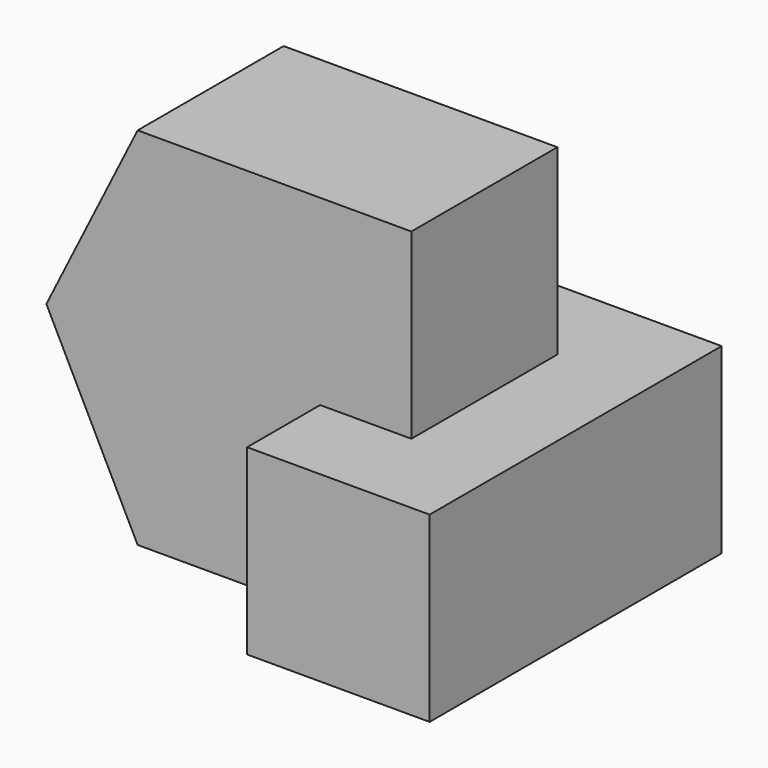
from build123d import *

# Parameters (mm, degrees)
F0_W      = 50
F0_H      = 40
F1_DEPTH  = 40
F2_W      = 10
F2_H      = 20
F3_DEPTH  = 50.001
F4_W      = 30
F4_H      = 10
F5_DEPTH  = 20.001
F6_W      = 10
F6_H      = 20
F7_DEPTH  = 20
F9_DEPTH  = 30.001
F10_DEPTH = 30.001


with BuildPart() as f1:
    # F0 (on Front) → F1 (new body)
    with BuildSketch(Plane.XZ):
        with Locations((25, 20)):
            Rectangle(F0_W, F0_H)
    extrude(amount=F1_DEPTH)

    # F2 (on face) → F3 (cut, through all)
    with BuildSketch(Plane(origin=(0, 0, 0), x_dir=(0, -1, 0), z_dir=(-1, 0, 0))):
        with Locations((5, 30)):
            Rectangle(F2_W, F2_H)
        with Locations((35, 30)):
            Rectangle(F2_W, F2_H)
    extrude(amount=-F3_DEPTH, mode=Mode.SUBTRACT)

    # F4 (on face) → F5 (cut, through all)
    with BuildSketch(Plane.XY.offset(20)):
        with Locations((15, -5)):
            Rectangle(F4_W, F4_H)
        with Locations((15, -35)):
            Rectangle(F4_W, F4_H)
    extrude(amount=-F5_DEPTH, mode=Mode.SUBTRACT)

    # F6 (on face) → F7 (cut, through all)
    with BuildSketch(Plane.XY.offset(40)):
        with Locations((45, -20)):
            Rectangle(F6_W, F6_H)
    extrude(amount=-F7_DEPTH, mode=Mode.SUBTRACT)

    # F8 (on face) → F9 (cut, through all)
    with BuildSketch(Plane.XZ.offset(30)):
        Polygon((10, 40), (0, 40), (0, 20), align=None)
    extrude(amount=-F9_DEPTH, mode=Mode.SUBTRACT)

    # F8 (on face) → F10 (cut, through all)
    with BuildSketch(Plane.XZ.offset(30)):
        Polygon((10, 0), (0, 20), (0, 0), align=None)
    extrude(amount=-F10_DEPTH, mode=Mode.SUBTRACT)


solid = f1.part
